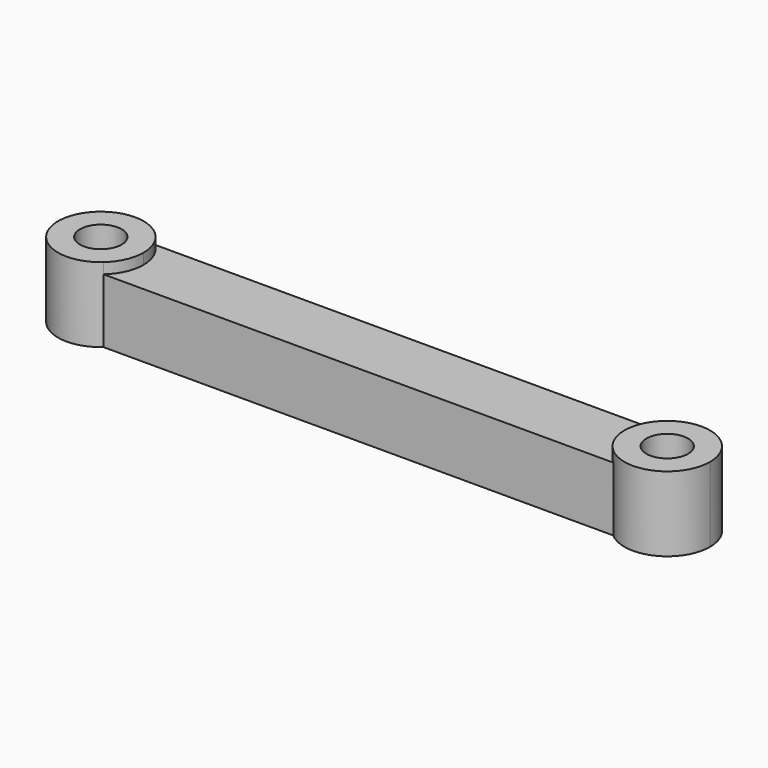
from build123d import *

# Parameters (mm, degrees)
F0_R     = 1.95
F1_DEPTH = 7
F2_DEPTH = 6


with BuildPart() as f1:
    # F0 (on Top) → F1 (new body)
    with BuildSketch(Plane.XY):
        with BuildLine():
            ThreePointArc((-23.854249, -3), (-22.854249, -1.645751), (-22.5, 0))
            ThreePointArc((-22.5, 0), (-22.854249, 1.645751), (-23.854249, 3))
            ThreePointArc((-23.854249, 3), (-30.5, 0), (-23.854249, -3))
        make_face()
        with Locations((-26.5, 0)):
            Circle(F0_R, mode=Mode.SUBTRACT)
        with BuildLine():
            ThreePointArc((30.5, 0), (28.145751, 3.645751), (23.854249, 3))
            ThreePointArc((23.854249, 3), (22.5, 0), (23.854249, -3))
            ThreePointArc((23.854249, -3), (28.145751, -3.645751), (30.5, 0))
        make_face()
        with Locations((26.5, 0)):
            Circle(F0_R, mode=Mode.SUBTRACT)
    extrude(amount=F1_DEPTH)


with BuildPart() as f2:
    # F0 (on Top) → F2 (new body)
    with BuildSketch(Plane.XY):
        with BuildLine():
            ThreePointArc((-23.854249, 3), (-22.854249, 1.645751), (-22.5, 0))
            ThreePointArc((-22.5, 0), (-22.854249, -1.645751), (-23.854249, -3))
            Line((-23.854249, -3), (23.854249, -3))
            ThreePointArc((23.854249, -3), (22.5, 0), (23.854249, 3))
            Line((23.854249, 3), (-23.854249, 3))
        make_face()
    extrude(amount=F2_DEPTH)


solid = Compound([f1.part, f2.part])
